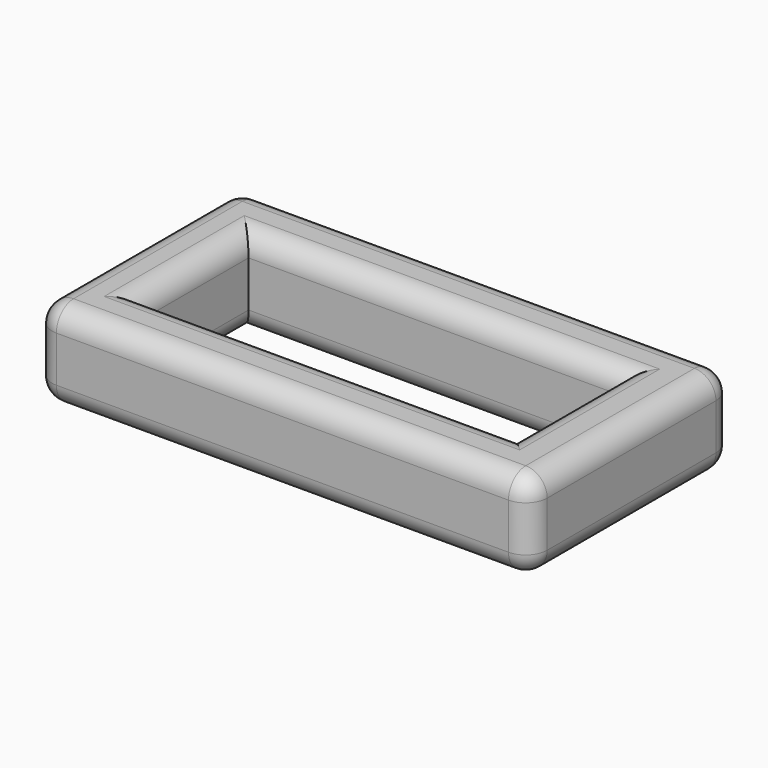
from build123d import *

# Parameters (mm, degrees)
F0_W     = 117
F0_H     = 60
F0_W_2   = 88.02
F0_H_2   = 31.22
F1_DEPTH = 21
F2_R     = 5.08


with BuildPart() as f1:
    # F0 (on Top) → F1 (new body)
    with BuildSketch(Plane.XY):
        with Locations((1.678534, 44.450285)):
            Rectangle(F0_W, F0_H)
        with Locations((1.188534, 44.450285)):
            Rectangle(F0_W_2, F0_H_2, mode=Mode.SUBTRACT)
    extrude(amount=-F1_DEPTH)

    # F2
    f2_edges = [f1.edges().sort_by_distance(p)[0] for p in [
        (-56.821466, 44.450285, 0),
        (1.678534, 14.450285, 0),
        (60.178534, 44.450285, 0),
        (1.678534, 74.450285, 0),
        (1.678534, 14.450285, -21),
        (60.178534, 44.450285, -21),
        (1.678534, 74.450285, -21),
        (-56.821466, 44.450285, -21),
        (-56.821466, 14.450285, -10.5),
        (-56.821466, 74.450285, -10.5),
        (60.178534, 14.450285, -10.5),
        (60.178534, 74.450285, -10.5),
        (45.198534, 44.450285, -21),
        (1.188534, 60.060285, -21),
        (-42.821466, 44.450285, -21),
        (1.188534, 28.840285, -21),
        (1.188534, 28.840285, 0),
        (-42.821466, 44.450285, 0),
        (45.198534, 44.450285, 0),
        (1.188534, 60.060285, 0),
    ]]
    fillet(f2_edges, radius=F2_R)


solid = f1.part
